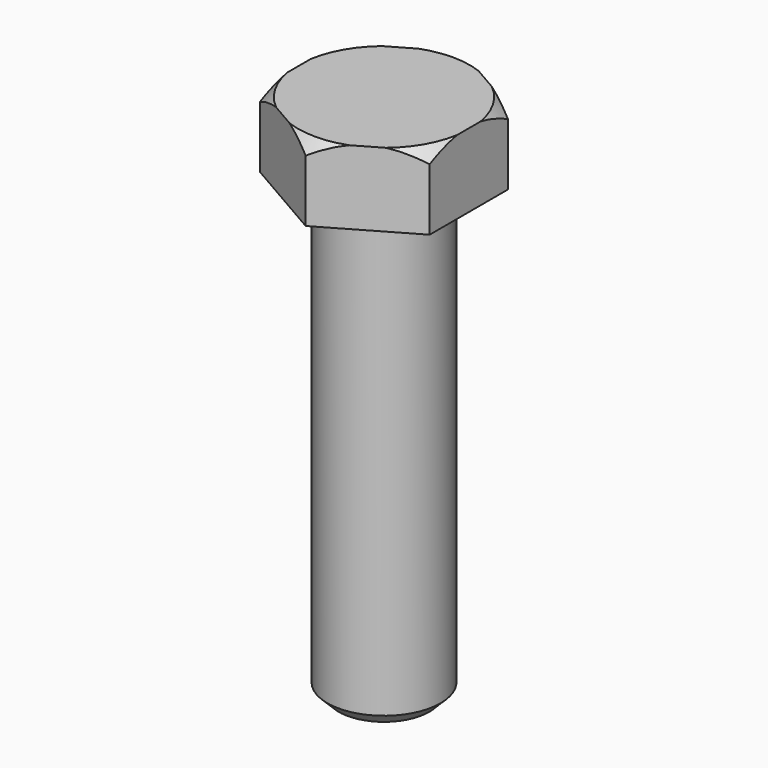
from build123d import *

# Parameters (mm, degrees)
F1_DEPTH = 6.21
F2_R     = 4.7625
F3_DEPTH = 38.1
F4_SIZE2 = 0.95
F4_SIZE  = 0.95


with BuildPart() as f1:
    # F0 (on Top) → F1 (new body)
    with BuildSketch(Plane.XY):
        Polygon((7.135, 4.119394), (0, 8.238788), (-7.135, 4.119394), (-7.135, -4.119394), (0, -8.238788), (7.135, -4.119394), align=None)
    extrude(amount=-F1_DEPTH)

    # F2 (on face) → F3 (join)
    with BuildSketch(Plane(origin=(0, 0, -6.21), x_dir=(1, 0, 0), z_dir=(0, 0, -1))):
        Circle(F2_R)
    extrude(amount=F3_DEPTH)

    # F4
    f4_edges = [f1.edges().sort_by_distance(p)[0] for p in [
        (-4.7625, 0, -44.31),
    ]]
    chamfer(f4_edges, length=F4_SIZE, length2=F4_SIZE2)

    # F5 (on Right) → F6 (revolve, cut)
    with BuildSketch(Plane.YZ):
        Polygon((8.238788, 0), (7.238788, 0), (8.238788, -1), align=None)
    revolve(axis=Axis((0, 0, -6.21), (0, 0, 1)), mode=Mode.SUBTRACT)


solid = f1.part
